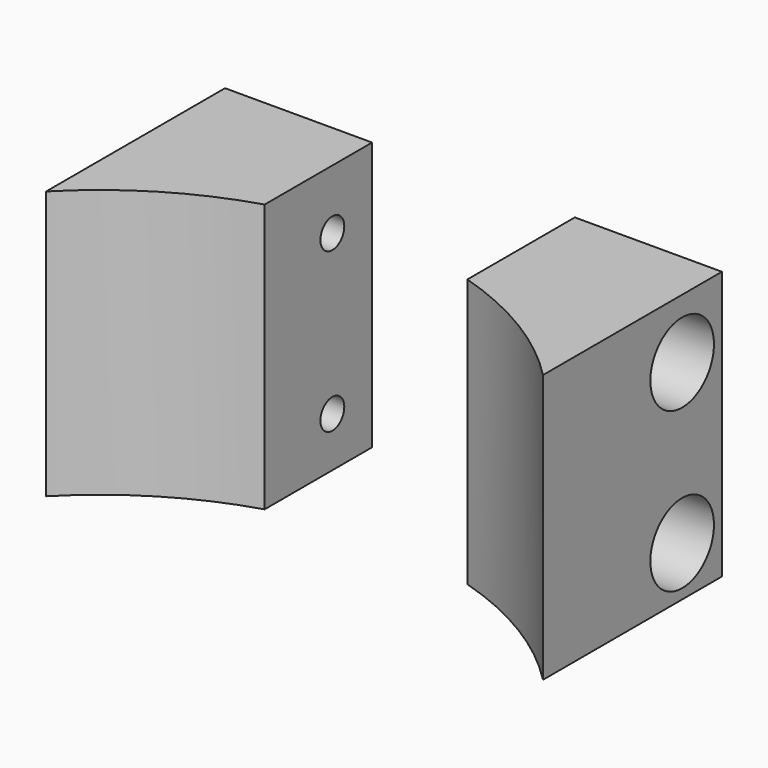
from build123d import *

# Parameters (mm, degrees)
CYLINDER1796_R     = 1.5
CYLINDER1796_DEPTH = 64
CYLINDER1795_R     = 1.5
CYLINDER1795_DEPTH = 64
CYLINDER1800_R     = 4
CYLINDER1800_DEPTH = 16
CYLINDER1799_R     = 4
CYLINDER1799_DEPTH = 16
CYLINDER1798_R     = 4
CYLINDER1798_DEPTH = 16
CYLINDER1797_R     = 4
CYLINDER1797_DEPTH = 16
CYLINDER1793_R     = 35
CYLINDER1793_DEPTH = 32
BOX712_W           = 20.4
BOX712_H           = 27
BOX712_DEPTH       = 28
BOX711_W           = 50
BOX711_H           = 32
BOX711_DEPTH       = 27


with BuildPart() as obj1:
    # Cylinder1796 → Cylinder1796 (new body)
    with BuildSketch(Plane(origin=(-32, 42, 17), x_dir=(0, 0, -1), z_dir=(1, 0, 0))):
        Circle(CYLINDER1796_R)
    extrude(amount=CYLINDER1796_DEPTH)


with BuildPart() as compound891:
    # Cylinder1795 → Cylinder1795 (new body)
    with BuildSketch(Plane(origin=(-32, 42, 1), x_dir=(0, 0, -1), z_dir=(1, 0, 0))):
        Circle(CYLINDER1795_R)
    extrude(amount=CYLINDER1795_DEPTH)

    # Compound891: union obj1
    add(obj1.part)


with BuildPart() as obj2:
    # Cylinder1800 → Cylinder1800 (new body)
    with BuildSketch(Plane(origin=(16, 42, 17), x_dir=(0, 0, -1), z_dir=(1, 0, 0))):
        Circle(CYLINDER1800_R)
    extrude(amount=CYLINDER1800_DEPTH)


with BuildPart() as obj3:
    # Cylinder1799 → Cylinder1799 (new body)
    with BuildSketch(Plane(origin=(16, 42, 1), x_dir=(0, 0, -1), z_dir=(1, 0, 0))):
        Circle(CYLINDER1799_R)
    extrude(amount=CYLINDER1799_DEPTH)


with BuildPart() as obj4:
    # Cylinder1798 → Cylinder1798 (new body)
    with BuildSketch(Plane(origin=(-32, 42, 17), x_dir=(0, 0, -1), z_dir=(1, 0, 0))):
        Circle(CYLINDER1798_R)
    extrude(amount=CYLINDER1798_DEPTH)


with BuildPart() as compound892:
    # Cylinder1797 → Cylinder1797 (new body)
    with BuildSketch(Plane(origin=(-32, 42, 1), x_dir=(0, 0, -1), z_dir=(1, 0, 0))):
        Circle(CYLINDER1797_R)
    extrude(amount=CYLINDER1797_DEPTH)

    # Compound892: union obj2, obj3, obj4
    add(obj2.part)
    add(obj3.part)
    add(obj4.part)


with BuildPart() as obj5:
    # Cylinder1793 → Cylinder1793 (new body)
    with BuildSketch(Plane.XY.offset(-3)):
        Circle(CYLINDER1793_R)
    extrude(amount=CYLINDER1793_DEPTH)


with BuildPart() as krychle712:
    # Box712 → Box712 (new body)
    with BuildSketch(Plane(origin=(-10.2, 20, -3), x_dir=(1, 0, 0), z_dir=(0, 0, 1))):
        with Locations((10.2, 13.5)):
            Rectangle(BOX712_W, BOX712_H)
    extrude(amount=BOX712_DEPTH)


with BuildPart() as cut529:
    # Box711 → Box711 (new body)
    with BuildSketch(Plane(origin=(-25, 15, -3), x_dir=(1, 0, 0), z_dir=(0, 0, 1))):
        with Locations((25, 16)):
            Rectangle(BOX711_W, BOX711_H)
    extrude(amount=BOX711_DEPTH)

    # Cut524: cut Krychle712
    add(krychle712.part, mode=Mode.SUBTRACT)

    # Cut527: cut obj5
    add(obj5.part, mode=Mode.SUBTRACT)


with BuildPart() as cut529_1:
    # Cut527 placement: moved
    add(cut529.part.moved(Location((0, 0, -1))))

    # Cut528: cut Compound892
    add(compound892.part, mode=Mode.SUBTRACT)

    # Cut529: cut Compound891
    add(compound891.part, mode=Mode.SUBTRACT)


solid = cut529_1.part
